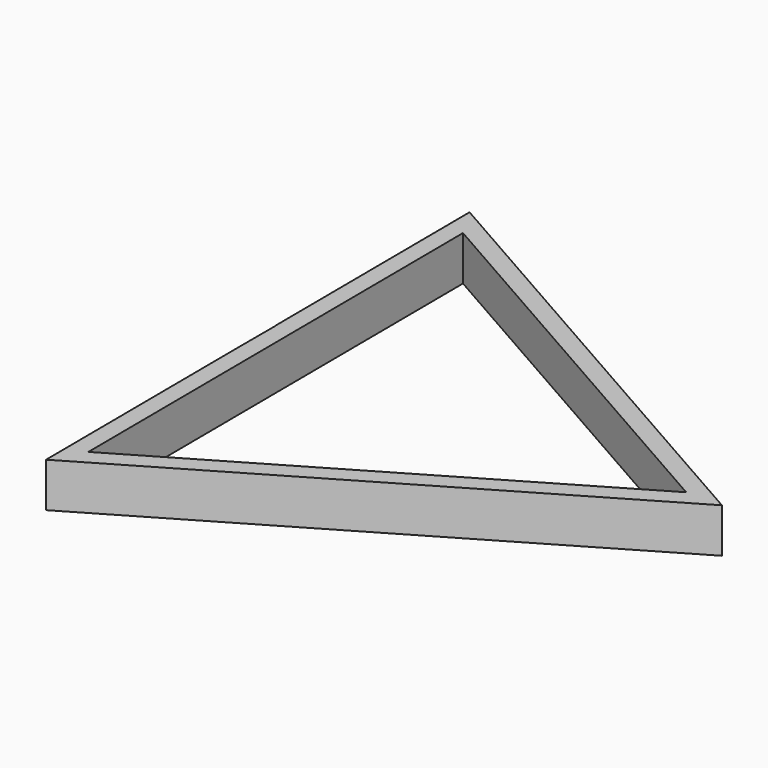
from build123d import *

# Parameters (mm, degrees)
F1_DEPTH = 6.35


with BuildPart() as f1:
    # F0 (on Top) → F1 (new body)
    with BuildSketch(Plane.XY):
        Polygon((43.993299, 0.263956), (-22.225242, 37.967336), (-22.015695, 3.042336), (-21.977595, 3.042336), (-21.977595, -3.307664), (-21.768056, -38.231292), align=None)
        Polygon((38.91339, 0.233477), (-19.254498, -33.816723), (-19.658892, 33.583246), align=None, mode=Mode.SUBTRACT)
    extrude(amount=F1_DEPTH)


solid = f1.part
